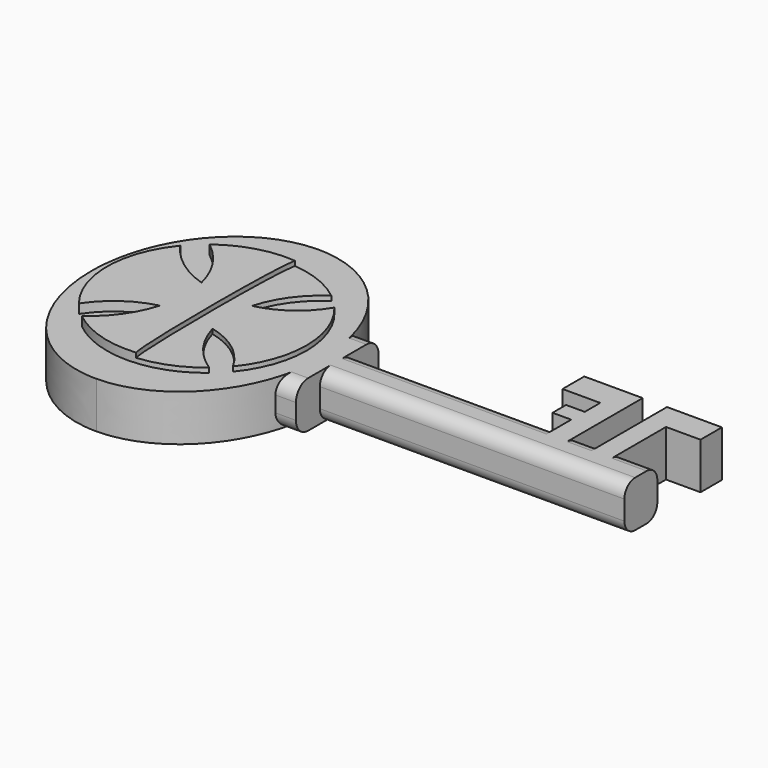
from build123d import *

# Parameters (mm, degrees)
PAD002_DEPTH = 35
PAD003_DEPTH = 4
PAD004_DEPTH = 5
PAD005_DEPTH = 5
PAD_DEPTH    = 1
POCKET_DEPTH = 0.5


with BuildPart() as part:
    # Sketch002 → Pad002 (new body)
    with BuildSketch(Plane.YZ.offset(46.87)):
        with BuildLine():
            Line((-0.77, 5), (0.77, 5))
            ThreePointArc((2.22, 3.55), (1.795305, 4.575305), (0.77, 5))
            Line((2.22, 3.55), (2.22, 1.45))
            ThreePointArc((0.77, 0), (1.795305, 0.424695), (2.22, 1.45))
            Line((0.77, 0), (-0.77, 0))
            ThreePointArc((-2.22, 1.45), (-1.795305, 0.424695), (-0.77, 0))
            Line((-2.22, 1.45), (-2.22, 3.55))
            ThreePointArc((-0.77, 5), (-1.795305, 4.575305), (-2.22, 3.55))
        make_face()
    extrude(amount=-PAD002_DEPTH)

    # Sketch003 → Pad003 (join)
    with BuildSketch(Plane.YZ.offset(14)):
        with BuildLine():
            Line((-3.803555, 0), (4.066445, 0))
            ThreePointArc((4.066445, 0), (5.233171, 0.483274), (5.716445, 1.65))
            Line((5.716445, 1.65), (5.716445, 3.35))
            ThreePointArc((5.716445, 3.35), (5.233171, 4.516726), (4.066445, 5))
            Line((4.066445, 5), (-3.803555, 5))
            ThreePointArc((-3.803555, 5), (-4.970281, 4.516726), (-5.453555, 3.35))
            Line((-5.453555, 3.35), (-5.453555, 1.65))
            ThreePointArc((-5.453555, 1.65), (-4.970281, 0.483274), (-3.803555, 0))
        make_face()
    extrude(amount=-PAD003_DEPTH)

    # Sketch005 → Pad004 (join)
    with BuildSketch(Plane.XY):
        with BuildLine():
            add(Edge.make_bspline(
                [(-0.016421, 15.055976), (-1.51312, 15.047784), (-3.00857, 14.811385), (-4.467156, 14.346958), (-5.853346, 13.665527), (-7.137203, 12.788252), (-8.299907, 11.744186), (-9.335169, 10.555337), (-10.232104, 9.242889), (-10.987087, 7.827952), (-11.593837, 6.330415), (-12.049258, 4.771197), (-12.350633, 3.170976), (-12.496836, 1.550706), (-12.487972, -0.068717)],
                knots=[0, 0, 0, 0, 0, 0, 0, 0, 0, 0, 0, 0, 0, 0, 0, 1.570796, 1.570796, 1.570796, 1.570796, 1.570796, 1.570796, 1.570796, 1.570796, 1.570796, 1.570796, 1.570796, 1.570796, 1.570796, 1.570796, 1.570796], degree=14))
            add(Edge.make_bspline(
                [(-12.487972, -0.068717), (-12.479108, -1.688139), (-12.315176, -3.306712), (-11.996302, -4.903537), (-11.523839, -6.457677), (-10.900731, -7.948482), (-10.130305, -9.35507), (-9.219056, -10.65762), (-8.170841, -11.835064), (-6.996777, -12.86634), (-5.703394, -13.729507), (-4.309827, -14.395723), (-2.846245, -14.844155), (-1.348296, -15.064169), (0.148403, -15.055976)],
                knots=[1.570796, 1.570796, 1.570796, 1.570796, 1.570796, 1.570796, 1.570796, 1.570796, 1.570796, 1.570796, 1.570796, 1.570796, 1.570796, 1.570796, 1.570796, 3.141593, 3.141593, 3.141593, 3.141593, 3.141593, 3.141593, 3.141593, 3.141593, 3.141593, 3.141593, 3.141593, 3.141593, 3.141593, 3.141593, 3.141593], degree=14))
            add(Edge.make_bspline(
                [(0.148403, -15.055976), (1.645102, -15.047784), (3.140552, -14.811385), (4.599138, -14.346958), (5.985328, -13.665527), (7.269185, -12.788252), (8.431889, -11.744186), (9.467151, -10.555337), (10.364086, -9.242889), (11.119069, -7.827952), (11.725819, -6.330415), (12.18124, -4.771197), (12.482615, -3.170976), (12.628818, -1.550706), (12.619954, 0.068717)],
                knots=[3.141593, 3.141593, 3.141593, 3.141593, 3.141593, 3.141593, 3.141593, 3.141593, 3.141593, 3.141593, 3.141593, 3.141593, 3.141593, 3.141593, 3.141593, 4.712389, 4.712389, 4.712389, 4.712389, 4.712389, 4.712389, 4.712389, 4.712389, 4.712389, 4.712389, 4.712389, 4.712389, 4.712389, 4.712389, 4.712389], degree=14))
            add(Edge.make_bspline(
                [(12.619954, 0.068717), (12.61109, 1.688139), (12.447158, 3.306712), (12.128284, 4.903537), (11.655821, 6.457677), (11.032713, 7.948482), (10.262287, 9.35507), (9.351038, 10.65762), (8.302823, 11.835064), (7.128759, 12.86634), (5.835376, 13.729507), (4.441809, 14.395723), (2.978227, 14.844155), (1.480278, 15.064169), (-0.016421, 15.055976)],
                knots=[4.712389, 4.712389, 4.712389, 4.712389, 4.712389, 4.712389, 4.712389, 4.712389, 4.712389, 4.712389, 4.712389, 4.712389, 4.712389, 4.712389, 4.712389, 6.283185, 6.283185, 6.283185, 6.283185, 6.283185, 6.283185, 6.283185, 6.283185, 6.283185, 6.283185, 6.283185, 6.283185, 6.283185, 6.283185, 6.283185], degree=14))
        make_face()
    extrude(amount=PAD004_DEPTH)

    # Sketch006 → Pad005 (join)
    with BuildSketch(Plane.XY):
        Polygon((43.121773, 8.076345), (43.121773, 0.549987), (40.917084, 0.549987), (40.917084, 10.96525), (46.846939, 10.96525), (46.846939, 8.076345), align=None)
        Polygon((31.984285, 10.96525), (38.294262, 10.96525), (38.294262, 0.626011), (36.051559, 0.626011), (36.051559, 4.123106), (34.036926, 4.123106), (34.036926, 5.947678), (36.051559, 5.947678), (36.051559, 8.038333), (31.984285, 8.038333), align=None)
    extrude(amount=PAD005_DEPTH)

    # Sketch (on Face46 of Pad005) → Pad (join)
    with BuildSketch(Plane(origin=(0, 0, 5), x_dir=(0, -1, 0), z_dir=(0, 0, 1))):
        with BuildLine():
            ThreePointArc((-8.409153, 6.728971), (-10.769324, 0.120636), (-8.557777, -6.53891))
            ThreePointArc((-2.682549, -2.707352), (-5.947717, -4.120868), (-8.557777, -6.53891))
            ThreePointArc((-6.84041, -8.318755), (-4.297701, -5.856698), (-2.682549, -2.707352))
            ThreePointArc((-6.84041, -8.318755), (-0.069564, -10.769775), (6.732378, -8.406425))
            ThreePointArc((2.777161, -2.829888), (4.233029, -5.988206), (6.732378, -8.406425))
            ThreePointArc((8.371362, -6.775928), (5.903039, -4.336809), (2.777161, -2.829888))
            ThreePointArc((8.371362, -6.775928), (10.769725, 0.076933), (8.273705, 6.894832))
            ThreePointArc((2.555971, 2.675341), (5.803156, 4.258886), (8.273705, 6.894832))
            ThreePointArc((6.851023, 8.310017), (4.104112, 5.949562), (2.555971, 2.675341))
            ThreePointArc((6.851023, 8.310017), (-0.022073, 10.769977), (-6.885028, 8.281865))
            ThreePointArc((-2.780082, 2.669729), (-4.25796, 5.896079), (-6.885028, 8.281865))
            ThreePointArc((-8.409153, 6.728971), (-5.958868, 4.194233), (-2.780082, 2.669729))
        make_face()
    extrude(amount=PAD_DEPTH)

    # Sketch009 (on Face74 of Pad) → Pocket (cut)
    with BuildSketch(Plane(origin=(1, 0, 6), x_dir=(0, -1, 0), z_dir=(0, 0, 1))):
        with BuildLine():
            add(Edge.make_bspline(
                [(-10.77411, 0), (-10.77411, -0.438108), (0, -0.438108), (10.77411, -0.438108), (10.77411, 0)],
                knots=[0, 0, 0, 1.570796, 1.570796, 3.141593, 3.141593, 3.141593], degree=2, weights=[1, 0.707107, 1, 0.707107, 1]))
            Line((10.77411, 0), (10.77411, 9.970053))
            Line((10.77411, 9.970053), (-10.77411, 9.970053))
            Line((-10.77411, 9.970053), (-10.77411, 0))
        make_face()
    extrude(amount=-POCKET_DEPTH, mode=Mode.SUBTRACT)


solid = part.part
